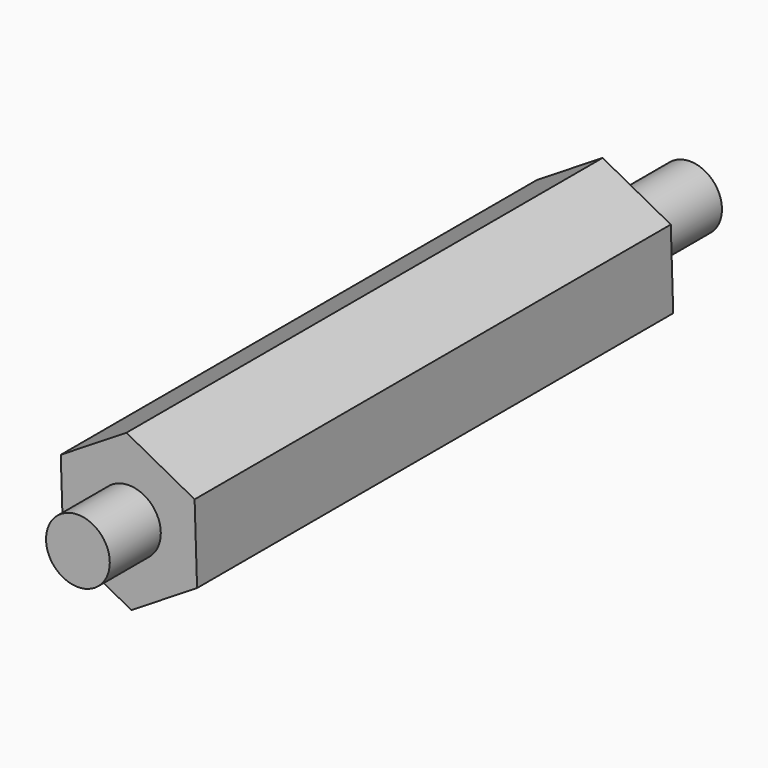
from build123d import *

# Parameters (mm, degrees)
F1_DEPTH = 28
F2_R     = 1.5
F3_DEPTH = 3
F4_R     = 1.5
F5_DEPTH = 5


with BuildPart() as f1:
    # F0 (on Front) → F1 (new body)
    with BuildSketch(Plane.XZ):
        Polygon((0.116138, -3.635452), (3.206463, -1.717148), (3.090325, 1.918304), (-0.116138, 3.635452), (-3.206463, 1.717148), (-3.090325, -1.918304), align=None)
    extrude(amount=-F1_DEPTH)

    # F2 (on face) → F3 (join)
    with BuildSketch(Plane.XZ):
        Circle(F2_R)
    extrude(amount=F3_DEPTH)

    # F4 (on face) → F5 (join)
    with BuildSketch(Plane(origin=(0, 28, 0), x_dir=(-1, 0, 0), z_dir=(0, 1, 0))):
        Circle(F4_R)
    extrude(amount=F5_DEPTH)


solid = f1.part
